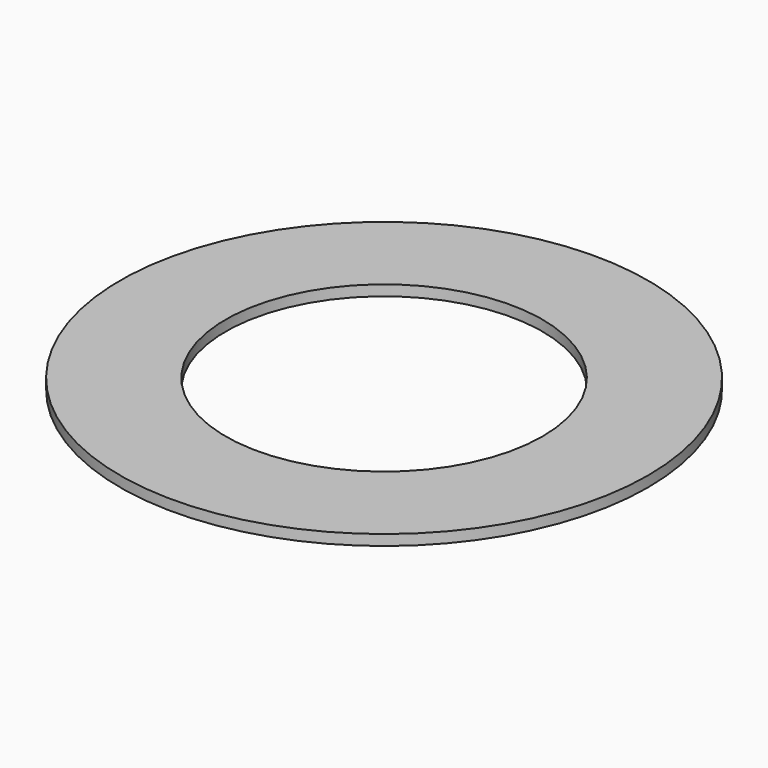
from build123d import *

# Parameters (mm, degrees)
SKETCH_R   = 2.5
SKETCH_R_2 = 1.5
PAD_DEPTH  = 0.1


with BuildPart() as part:
    # Sketch → Pad (new body)
    with BuildSketch(Plane.XY):
        Circle(SKETCH_R)
        Circle(SKETCH_R_2, mode=Mode.SUBTRACT)
    extrude(amount=PAD_DEPTH)


solid = part.part
